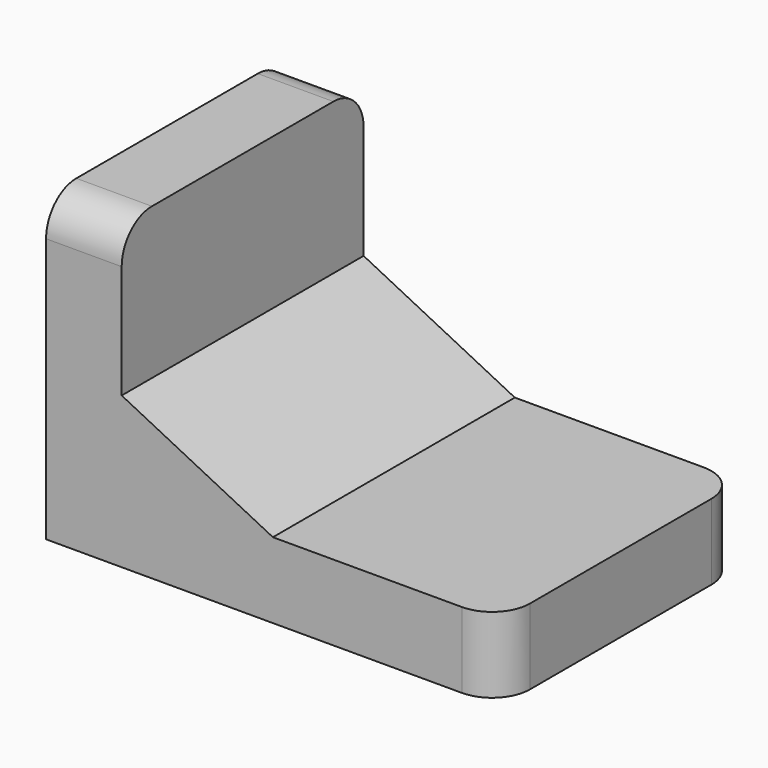
from build123d import *

# Parameters (mm, degrees)
F1_DEPTH = 40
F2_R     = 5


with BuildPart() as f1:
    # F0 (on Front) → F1 (new body)
    with BuildSketch(Plane.XZ):
        Polygon((30, 0), (0, 0), (-20, 10), (-20, 30), (-30, 30), (-30, -10), (30, -10), align=None)
    extrude(amount=F1_DEPTH)

    # F2
    f2_edges = [f1.edges().sort_by_distance(p)[0] for p in [
        (30, -40, -5),
        (30, 0, -5),
        (-25, -40, 30),
        (-25, 0, 30),
    ]]
    fillet(f2_edges, radius=F2_R)


solid = f1.part
